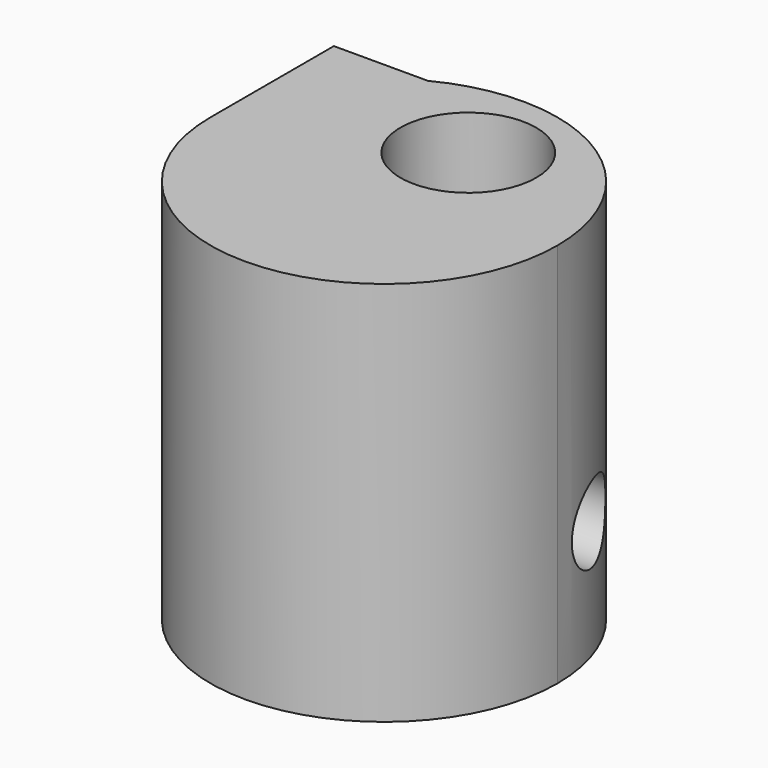
from build123d import *

# Parameters (mm, degrees)
F1_DEPTH = 100
F2_R     = 17.6104125338
F3_DEPTH = 100.001
F4_R     = 10
F5_DEPTH = 90.001


with BuildPart() as f1:
    # F0 (on Top) → F1 (new body)
    with BuildSketch(Plane.XY):
        with BuildLine():
            Line((0, 0), (-45, 0))
            ThreePointArc((-45, 0), (0, -45), (45, 0))
            ThreePointArc((45, 0), (23.4232921921, 38.4232921921), (-20.6155281281, 40))
            Line((-20.6155281281, 40), (0, 40))
            Line((0, 40), (0, 0))
        make_face()
        with BuildLine():
            Line((-45, 40), (-45, 0))
            ThreePointArc((-45, 0), (-38.4232921921, 23.4232921921), (-20.6155281281, 40))
            Line((-20.6155281281, 40), (-45, 40))
        make_face()
        with BuildLine():
            ThreePointArc((-20.6155281281, 40), (-38.4232921921, 23.4232921921), (-45, 0))
            Line((-45, 0), (0, 0))
            Line((0, 0), (0, 40))
            Line((0, 40), (-20.6155281281, 40))
        make_face()
    extrude(amount=F1_DEPTH)

    # F2 (on face) → F3 (cut, through all)
    with BuildSketch(Plane.XY.offset(100)):
        with Locations((5.4660397582, 20.4941760749)):
            Circle(F2_R)
    extrude(amount=-F3_DEPTH, mode=Mode.SUBTRACT)

    # F4 (on face) → F5 (cut, through all)
    with BuildSketch(Plane(origin=(-45, 0, 0), x_dir=(0, -1, 0), z_dir=(-1, 0, 0))):
        with Locations((-15, 30)):
            Circle(F4_R)
    extrude(amount=-F5_DEPTH, mode=Mode.SUBTRACT)


solid = f1.part
